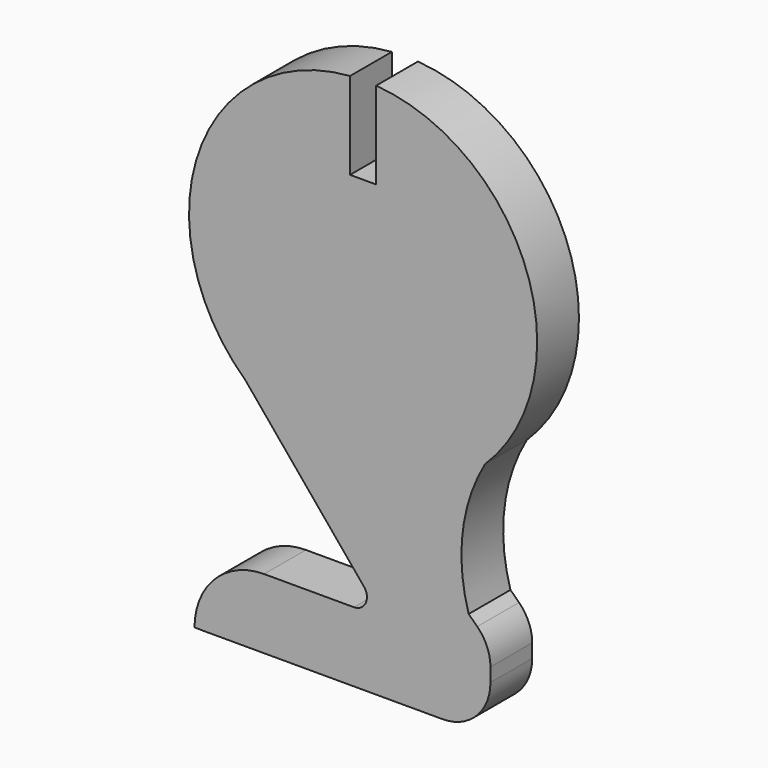
from build123d import *

# Parameters (mm, degrees)
F1_DEPTH      = 3
F1_DEPTH_BACK = 3


with BuildPart() as f1:
    # F0 (on Front) → F1 (new body, two sides)
    with BuildSketch(Plane.XZ) as f1_sk:
        with BuildLine():
            Line((-1.5, 26.94191), (-1.5, 36.94191))
            ThreePointArc((-1.5, 36.94191), (-18.896687, 23.54921), (-13.522435, 2.26244))
            Line((-13.522435, 2.26244), (0.098218, -14.188355))
            ThreePointArc((0.098218, -14.188355), (0.300212, -15.783356), (-1.057159, -16.644965))
            Line((-1.057159, -16.644965), (-11.367799, -16.644965))
            ThreePointArc((-11.367799, -16.644965), (-17.024653, -18.988111), (-19.367799, -24.644965))
            Line((-19.367799, -24.644965), (-18.397519, -24.656501))
            ThreePointArc((-18.397519, -24.656501), (-18.367798, -24.656766), (-18.338077, -24.656854))
            Line((-18.338077, -24.656854), (9.132201, -24.656854))
            ThreePointArc((9.132201, -24.656854), (13.021288, -23.045942), (14.632201, -19.156854))
            Line((14.632201, -19.156854), (14.632201, -17.58336))
            ThreePointArc((14.632201, -17.58336), (14.23696, -15.634978), (13.113725, -13.994629))
            Line((13.113725, -13.994629), (12.132201, -13.042426))
            ThreePointArc((12.132201, -13.042426), (11.436595, -4.970037), (14.000526, 2.715898))
            ThreePointArc((14.000526, 2.715898), (18.786206, 23.859613), (1.5, 36.94191))
            Line((1.5, 36.94191), (1.5, 26.94191))
            Line((1.5, 26.94191), (-1.5, 26.94191))
        make_face()
    extrude(amount=F1_DEPTH)
    extrude(f1_sk.sketch, amount=-F1_DEPTH_BACK)


solid = f1.part
